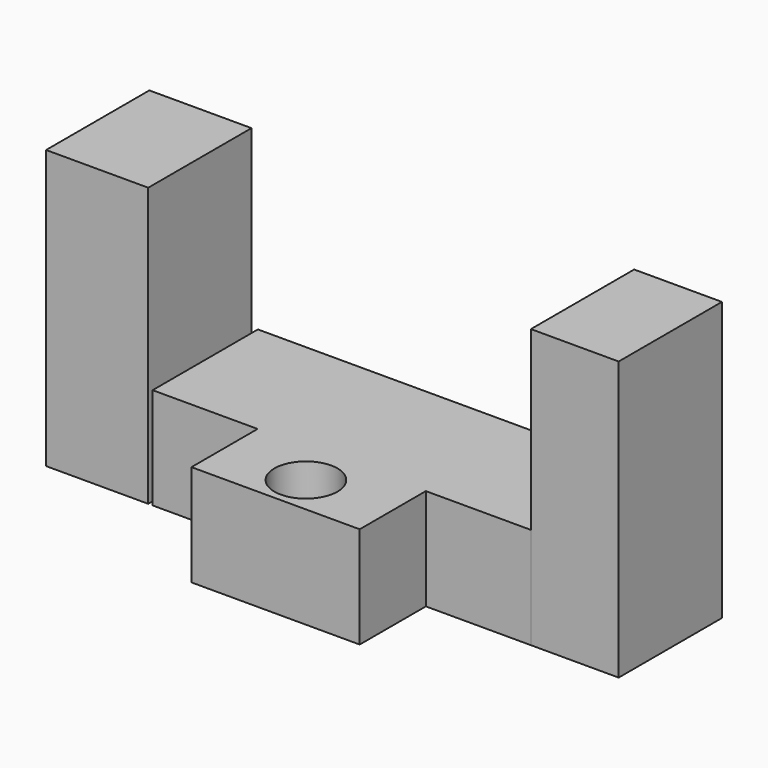
from build123d import *

# Parameters (mm, degrees)
F0_W     = 34.102624
F0_H     = 16.759835
F1_DEPTH = 20.574
F2_W     = 20.704717
F2_H     = 56.410454
F2_W_2   = 17.788556
F3_DEPTH = 26.162
F4_R     = 6.392555
F5_DEPTH = 70.358


with BuildPart() as f1:
    # F0 (on Top) → F1 (new body)
    with BuildSketch(Plane.XY):
        Polygon((-38.183279, 0), (-16.905574, 0), (17.19705, 0), (38.474757, 0), (38.474757, 26.670001), (-38.183279, 26.670001), align=None)
        with Locations((0.145738, -8.379917)):
            Rectangle(F0_W, F0_H)
    extrude(amount=F1_DEPTH)

    # F4 (on Top) → F5 (cut)
    with BuildSketch(Plane.XY):
        with Locations((0, -8.89)):
            Circle(F4_R)
    extrude(amount=F5_DEPTH, mode=Mode.SUBTRACT)


with BuildPart() as f3:
    # F2 (on Front) → F3 (new body)
    with BuildSketch(Plane.XZ):
        with Locations((-49.42859, 28.205227)):
            Rectangle(F2_W, F2_H)
        with Locations((47.38784, 28.205227)):
            Rectangle(F2_W_2, F2_H)
    extrude(amount=-F3_DEPTH)


solid = Compound([f1.part, f3.part])
